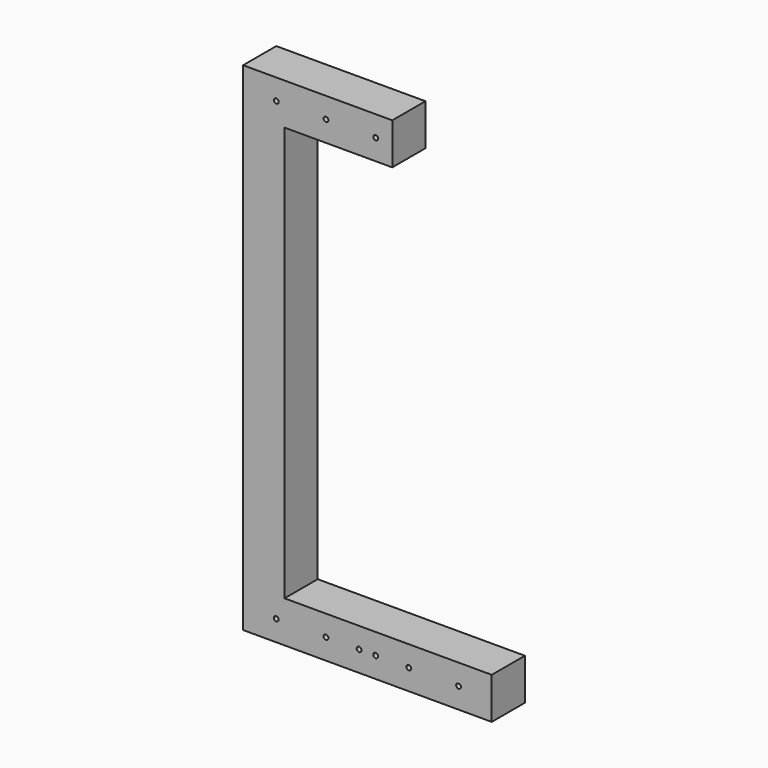
from build123d import *

# Parameters (mm, degrees)
F0_R     = 1.45
F1_DEPTH = 25


with BuildPart() as f1:
    # F0 (on Front) → F1 (new body)
    with BuildSketch(Plane.XZ):
        Polygon((-30, 150), (-120, 150), (-120, -150), (30, -150), (30, -125), (-95, -125), (-95, 125), (-30, 125), align=None)
        with Locations((-100, -137.5)):
            Circle(F0_R, mode=Mode.SUBTRACT)
        with Locations((-70, -137.5)):
            Circle(F0_R, mode=Mode.SUBTRACT)
        with Locations((-50, -137.5)):
            Circle(F0_R, mode=Mode.SUBTRACT)
        with Locations((-40, -137.5)):
            Circle(F0_R, mode=Mode.SUBTRACT)
        with Locations((-20, -137.5)):
            Circle(F0_R, mode=Mode.SUBTRACT)
        with Locations((10, -137.5)):
            Circle(F0_R, mode=Mode.SUBTRACT)
        with Locations((-100, 137.5)):
            Circle(F0_R, mode=Mode.SUBTRACT)
        with Locations((-70, 137.5)):
            Circle(F0_R, mode=Mode.SUBTRACT)
        with Locations((-40, 137.5)):
            Circle(F0_R, mode=Mode.SUBTRACT)
    extrude(amount=F1_DEPTH)


solid = f1.part
